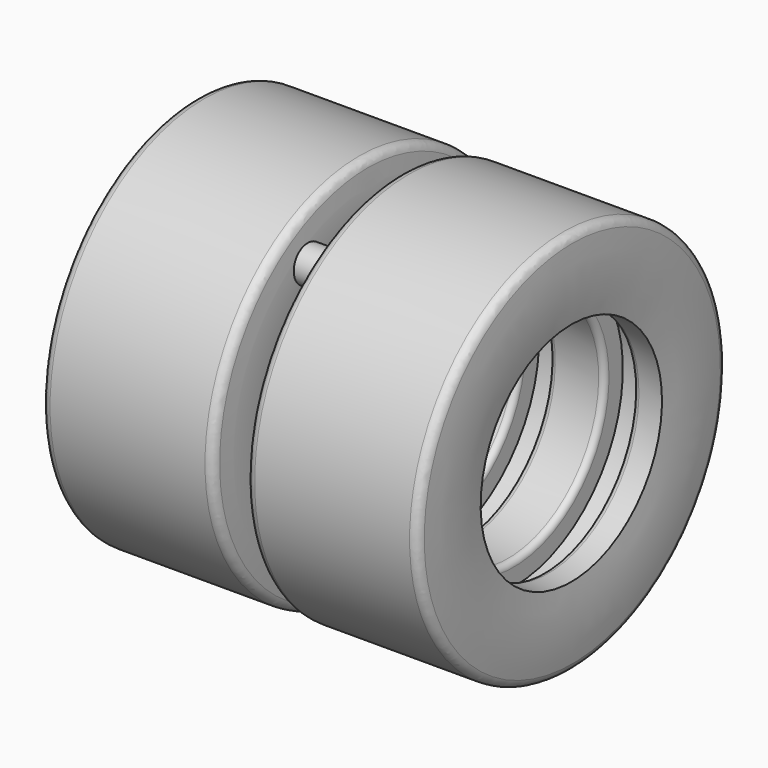
from build123d import *

# Parameters (mm, degrees)
F2_R     = 0.381
F3_R     = 0.8001
F4_DEPTH = 2.032
F5_R     = 0.254


with BuildPart() as f1:
    # F0 (on Front) → F1 (revolve)
    with BuildSketch(Plane.XZ):
        with BuildLine():
            Line((3.75, 8.5), (-3.75, 8.5))
            ThreePointArc((-3.75, 8.5), (-3.87829, 6.75), (-3.75, 5))
            Line((-3.75, 5), (-2.48, 5))
            Line((-2.48, 5), (-2.48, 6.016))
            Line((-2.48, 6.016), (-1.21, 6.016))
            Line((-1.21, 6.016), (-1.21, 5))
            Line((-1.21, 5), (0, 5))
            Line((0, 5), (1.21, 5))
            Line((1.21, 5), (1.21, 6.016))
            Line((1.21, 6.016), (2.48, 6.016))
            Line((2.48, 6.016), (2.48, 5))
            Line((2.48, 5), (3.75, 5))
            ThreePointArc((3.75, 5), (3.87829, 6.75), (3.75, 8.5))
        make_face()
    revolve(axis=Axis((-4.79266, 0, 0), (-1, 0, 0)))

    # F2
    f2_edges = [f1.edges().sort_by_distance(p)[0] for p in [
        (-3.75, 0, -8.5),
        (3.75, 0, -8.5),
    ]]
    fillet(f2_edges, radius=F2_R)

    # F3 (on face) → F4 (join)
    with BuildSketch(Plane.YZ.offset(-2.48)):
        with Locations((6.7437, 0)):
            Circle(F3_R)
        with Locations((-3.37185, 5.840216)):
            Circle(F3_R)
        with Locations((-3.37185, -5.840216)):
            Circle(F3_R)
    extrude(amount=-F4_DEPTH)

    # F5
    f5_edges = [f1.edges().sort_by_distance(p)[0] for p in [
        (-2.48, 0, -5),
        (-1.21, 0, -5),
        (1.21, 0, -5),
        (2.48, 0, -5),
    ]]
    fillet(f5_edges, radius=F5_R)

    # F6: F1 across face


with BuildPart() as f1_1:
    add(f1.part)
    add(f1.part.mirror(Plane(origin=(-4.512, 6.7437, 0), x_dir=(0, 1, 0), z_dir=(-1, 0, 0))))


solid = f1_1.part
